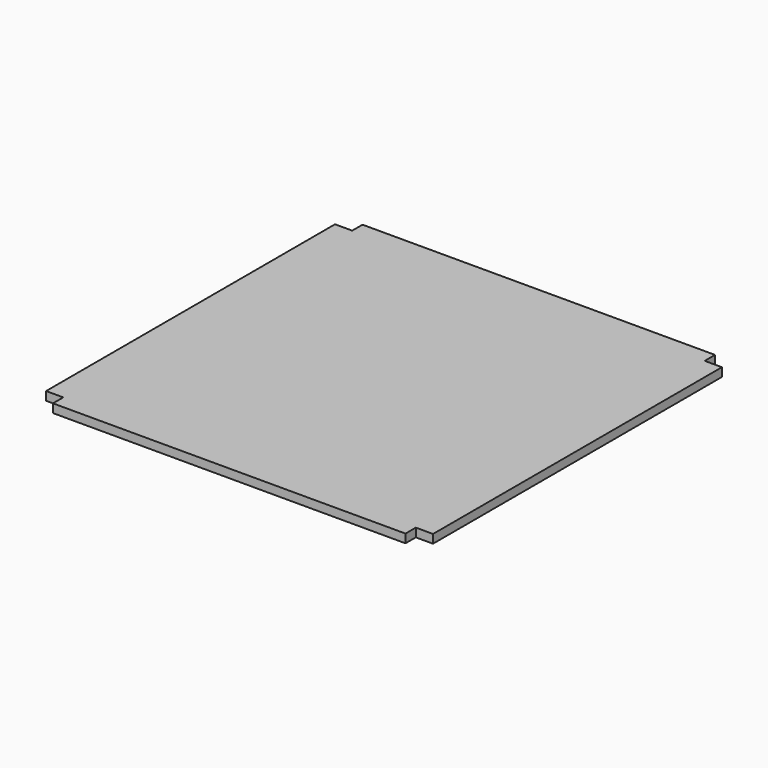
from build123d import *

# Parameters (mm, degrees)
F0_W     = 450
F0_H     = 450
F1_DEPTH = 10
F2_W     = 20
F2_H     = 15
F3_DEPTH = 10.001


with BuildPart() as f1:
    # F0 (on Top) → F1 (new body)
    with BuildSketch(Plane.XY):
        with Locations((225, -225)):
            Rectangle(F0_W, F0_H)
    extrude(amount=F1_DEPTH)

    # F2 (on face) → F3 (cut, through all)
    with BuildSketch(Plane.XY.offset(10)):
        with Locations((440, -7.5)):
            Rectangle(F2_W, F2_H)
        with Locations((10, -7.5)):
            Rectangle(F2_W, F2_H)
        with Locations((10, -442.5)):
            Rectangle(F2_W, F2_H)
        with Locations((440, -442.5)):
            Rectangle(F2_W, F2_H)
    extrude(amount=-F3_DEPTH, mode=Mode.SUBTRACT)


with BuildPart() as f4_1:
    # F4: copy of F1
    add(f1.part)


solid = Compound([f1.part, f4_1.part])
